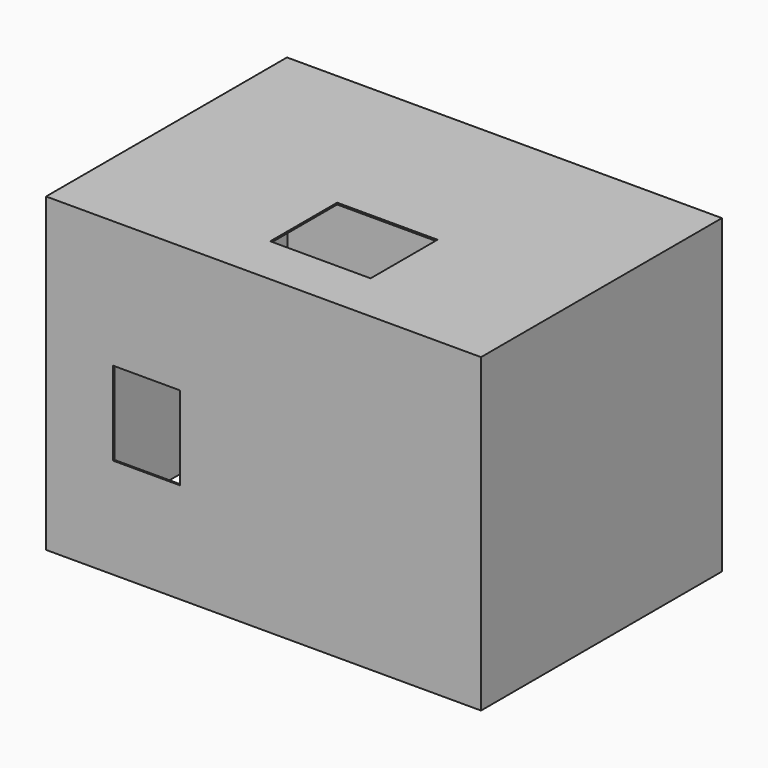
from build123d import *

# Parameters (mm, degrees)
F0_W     = 1300
F0_H     = 930
F1_DEPTH = 900
F2_T     = -5
F3_W     = 200
F3_H     = 250
F4_DEPTH = 25
F5_W     = 300
F5_H     = 250
F6_DEPTH = 25


with BuildPart() as f1:
    # F0 (on Front) → F1 (new body)
    with BuildSketch(Plane.XZ):
        with Locations((-607.050044, 412.407453)):
            Rectangle(F0_W, F0_H)
    extrude(amount=F1_DEPTH)

    # F2
    f2_openings = [f1.faces().sort_by_distance(p)[0] for p in [
        (-607.050044, -450, -52.592547),
    ]]
    offset(amount=F2_T, openings=f2_openings)

    # F3 (on face) → F4 (cut)
    with BuildSketch(Plane.XZ.offset(900)):
        with Locations((-957.050044, 372.407453)):
            Rectangle(F3_W, F3_H)
    extrude(amount=-F4_DEPTH, mode=Mode.SUBTRACT)

    # F5 (on face) → F6 (cut)
    with BuildSketch(Plane.XY.offset(877.407453)):
        with Locations((-557.050044, -625)):
            Rectangle(F5_W, F5_H)
    extrude(amount=-F6_DEPTH, mode=Mode.SUBTRACT)


solid = f1.part
